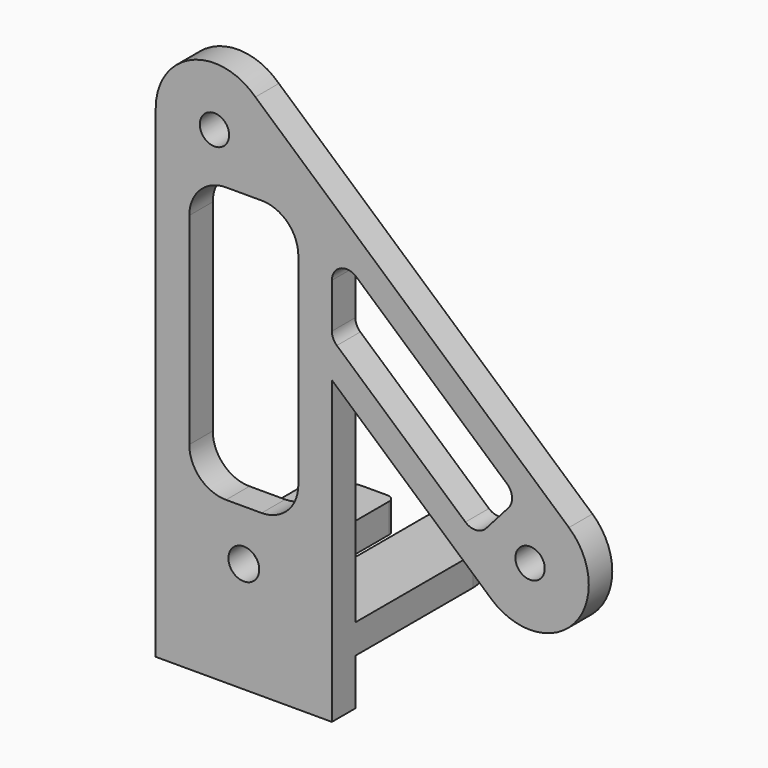
from build123d import *

# Parameters (mm, degrees)
F1_DEPTH  = 4
F2_R      = 2
F3_DEPTH  = 25
F4_W      = 24
F4_H      = 4
F5_DEPTH  = 25
F6_W      = 5.2
F6_H      = 17.668709
F7_DEPTH  = 25
F8_R      = 1
F9_R      = 1
F10_R     = 5
F11_W     = 14.858924
F11_H     = 37.477908
F12_DEPTH = 4
F13_DEPTH = 25
F14_R     = 2.1
F15_DEPTH = 4
F16_R     = 5
F17_R     = 2


with BuildPart() as f1:
    # F0 (on Front) → F1 (new body)
    with BuildSketch(Plane.XZ):
        with BuildLine():
            Line((26.796633, -13.004529), (-15.923725, 24.736302))
            ThreePointArc((-15.923725, 24.736302), (-24.613664, 26.369199), (-29.5, 19))
            Line((-29.5, 19), (-29.5, -46.82299))
            Line((-29.5, -46.82299), (-5.5, -46.82299))
            Line((-5.5, -46.82299), (-5.5, -5.821871))
            Line((-5.5, -5.821871), (16.203367, -24.995471))
            Line((16.203367, -24.995471), (26.796633, -13.004529))
        make_face()
        with BuildLine():
            ThreePointArc((16.203367, -24.995471), (27.495471, -24.296633), (26.796633, -13.004529))
            Line((26.796633, -13.004529), (16.203367, -24.995471))
        make_face()
    extrude(amount=F1_DEPTH)

    # F2 (on face) → F3 (cut)
    with BuildSketch(Plane.XZ.offset(4)):
        with Locations((-21.5, 19)):
            Circle(F2_R)
        with Locations((21.5, -19)):
            Circle(F2_R)
    extrude(amount=-F3_DEPTH, mode=Mode.SUBTRACT)

    # F4 (on face) → F5 (join)
    with BuildSketch(Plane(origin=(0, 0, 0), x_dir=(-1, 0, 0), z_dir=(0, 1, 0))):
        with Locations((17.5, -38.505935)):
            Rectangle(F4_W, F4_H)
    extrude(amount=F5_DEPTH)

    # F6 (on face) → F7 (cut)
    with BuildSketch(Plane.XY.offset(-36.505935)):
        with Locations((-17.5, 16.165646)):
            Rectangle(F6_W, F6_H)
    extrude(amount=-F7_DEPTH, mode=Mode.SUBTRACT)

    # F8
    f8_edges = [f1.edges().sort_by_distance(p)[0] for p in [
        (-20.1, 7.331291, -38.505935),
    ]]
    fillet(f8_edges, radius=F8_R)

    # F9
    f9_edges = [f1.edges().sort_by_distance(p)[0] for p in [
        (-14.9, 7.331291, -38.505935),
        (-14.9, 25, -38.505935),
        (-20.1, 25, -38.505935),
    ]]
    fillet(f9_edges, radius=F9_R)

    # F10
    f10_edges = [f1.edges().sort_by_distance(p)[0] for p in [
        (-5.5, 25, -38.505935),
        (-29.5, 25, -38.505935),
    ]]
    fillet(f10_edges, radius=F10_R)

    # F11 (on face) → F12 (cut, through all)
    with BuildSketch(Plane(origin=(0, 0, 0), x_dir=(-1, 0, 0), z_dir=(0, 1, 0))):
        with Locations((17.5, -6.138429)):
            Rectangle(F11_W, F11_H)
        Polygon((5.5, 10.577904), (-19.869124, -11.83417), (-17.031449, -15.046247), (5.5, 4.858914), align=None)
        Polygon((5.5, 4.858914), (-17.031449, -15.046247), (-14.193775, -18.258324), (5.5, -0.860075), align=None)
    extrude(amount=-F12_DEPTH, mode=Mode.SUBTRACT)

    # F11 (on face) → F13 (cut)
    with BuildSketch(Plane(origin=(0, 0, 0), x_dir=(-1, 0, 0), z_dir=(0, 1, 0))):
        with Locations((17.5, -6.138429)):
            Rectangle(F11_W, F11_H)
        Polygon((5.5, 10.577904), (-19.869124, -11.83417), (-17.031449, -15.046247), (5.5, 4.858914), align=None)
        Polygon((5.5, 4.858914), (-17.031449, -15.046247), (-14.193775, -18.258324), (5.5, -0.860075), align=None)
    extrude(amount=-F13_DEPTH, mode=Mode.SUBTRACT)

    # F14 (on face) → F15 (cut, through all)
    with BuildSketch(Plane(origin=(0, 0, 0), x_dir=(-1, 0, 0), z_dir=(0, 1, 0))):
        with Locations((17.5, -31.773042)):
            Circle(F14_R)
    extrude(amount=-F15_DEPTH, mode=Mode.SUBTRACT)

    # F16
    f16_edges = [f1.edges().sort_by_distance(p)[0] for p in [
        (-24.929462, -2, 12.600525),
        (-10.070538, -2, 12.600525),
        (-10.070538, -2, -24.877383),
        (-24.929462, -2, -24.877383),
    ]]
    fillet(f16_edges, radius=F16_R)

    # F17
    f17_edges = [f1.edges().sort_by_distance(p)[0] for p in [
        (14.193775, -2, -18.258324),
        (19.869124, -2, -11.83417),
        (-5.5, -2, -0.860075),
        (-5.5, -2, 10.577904),
    ]]
    fillet(f17_edges, radius=F17_R)


solid = f1.part
